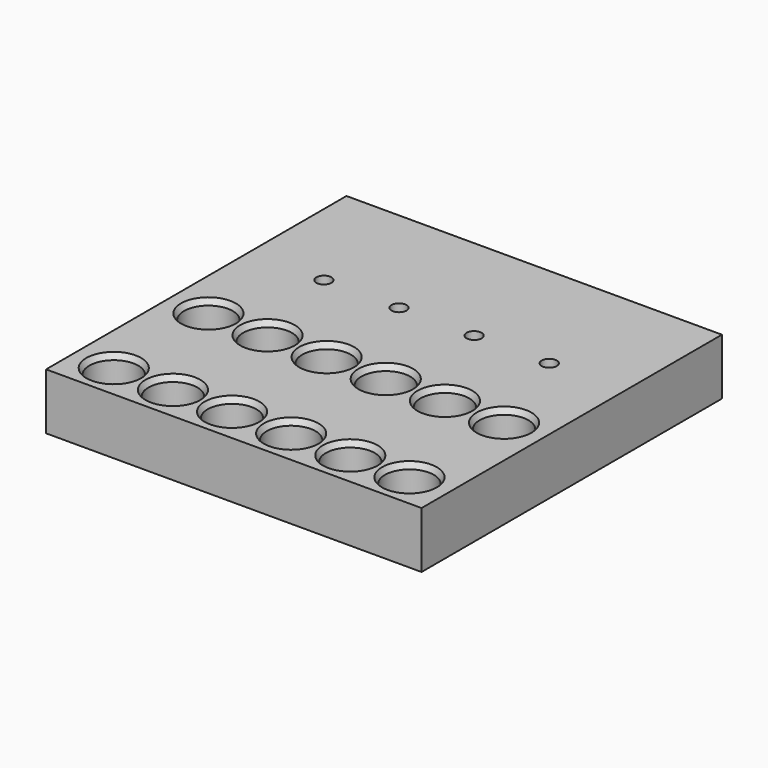
from build123d import *

# Parameters (mm, degrees)
F0_W           = 127
F0_H           = 127
F0_R           = 8.255
F0_R_2         = 3.175
F1_DEPTH       = 19.05
F2_D           = 5.1054
F3_D           = 16.51
F3_CSINK_D     = 18.542
F3_CSINK_ANGLE = 55


with BuildPart() as f1:
    # F0 (on Top) → F1 (new body)
    with BuildSketch(Plane.XY):
        Rectangle(F0_W, F0_H)
        with Locations((-50.0000905, -51.74996)):
            Circle(F0_R, mode=Mode.SUBTRACT)
        with Locations((-30.0000924, -51.74996)):
            Circle(F0_R, mode=Mode.SUBTRACT)
        with Locations((-10.0000943, -51.74996)):
            Circle(F0_R, mode=Mode.SUBTRACT)
        with Locations((-50.0000905, -11.75004)):
            Circle(F0_R, mode=Mode.SUBTRACT)
        with Locations((-30.0000924, -11.75004)):
            Circle(F0_R, mode=Mode.SUBTRACT)
        with Locations((-10.0000943, -11.75004)):
            Circle(F0_R, mode=Mode.SUBTRACT)
        with Locations((9.9999038, -51.74996)):
            Circle(F0_R, mode=Mode.SUBTRACT)
        with Locations((29.9999019, -51.74996)):
            Circle(F0_R, mode=Mode.SUBTRACT)
        with Locations((49.9999, -51.74996)):
            Circle(F0_R, mode=Mode.SUBTRACT)
        with Locations((9.9999038, -11.75004)):
            Circle(F0_R, mode=Mode.SUBTRACT)
        with Locations((29.9999019, -11.75004)):
            Circle(F0_R, mode=Mode.SUBTRACT)
        with Locations((49.9999, -11.75004)):
            Circle(F0_R, mode=Mode.SUBTRACT)
        with Locations((-38.1, 22.225)):
            Circle(F0_R_2, mode=Mode.SUBTRACT)
        with Locations((-12.7, 22.225)):
            Circle(F0_R_2, mode=Mode.SUBTRACT)
        with Locations((12.7, 22.225)):
            Circle(F0_R_2, mode=Mode.SUBTRACT)
        with Locations((38.1, 22.225)):
            Circle(F0_R_2, mode=Mode.SUBTRACT)
        with Locations((-38.1, 22.225)):
            Circle(F0_R_2)
        with Locations((-12.7, 22.225)):
            Circle(F0_R_2)
        with Locations((12.7, 22.225)):
            Circle(F0_R_2)
        with Locations((38.1, 22.225)):
            Circle(F0_R_2)
        with Locations((49.9999, -11.75004)):
            Circle(F0_R)
        with Locations((29.9999019, -11.75004)):
            Circle(F0_R)
        with Locations((9.9999038, -11.75004)):
            Circle(F0_R)
        with Locations((-10.0000943, -11.75004)):
            Circle(F0_R)
        with Locations((-30.0000924, -11.75004)):
            Circle(F0_R)
        with Locations((-50.0000905, -11.75004)):
            Circle(F0_R)
        with Locations((-50.0000905, -51.74996)):
            Circle(F0_R)
        with Locations((-30.0000924, -51.74996)):
            Circle(F0_R)
        with Locations((-10.0000943, -51.74996)):
            Circle(F0_R)
        with Locations((9.9999038, -51.74996)):
            Circle(F0_R)
        with Locations((29.9999019, -51.74996)):
            Circle(F0_R)
        with Locations((49.9999, -51.74996)):
            Circle(F0_R)
    extrude(amount=-F1_DEPTH)

    # F2 (through all)
    with Locations(Plane.XY):
        with Locations((-38.1, 22.225), (-12.7, 22.225), (12.7, 22.225), (38.1, 22.225)):
            Hole(F2_D / 2)

    # F3 (through all)
    with Locations(Plane.XY):
        with Locations((-50.0000905, -11.75004), (-30.0000924, -11.75004), (-10.0000943, -11.75004), (9.9999038, -11.75004), (29.9999019, -11.75004), (49.9999, -11.75004), (49.9999, -51.74996), (29.9999019, -51.74996), (9.9999038, -51.74996), (-10.0000943, -51.74996), (-30.0000924, -51.74996), (-50.0000905, -51.74996)):
            CounterSinkHole(F3_D / 2, F3_CSINK_D / 2, counter_sink_angle=F3_CSINK_ANGLE)


solid = f1.part
